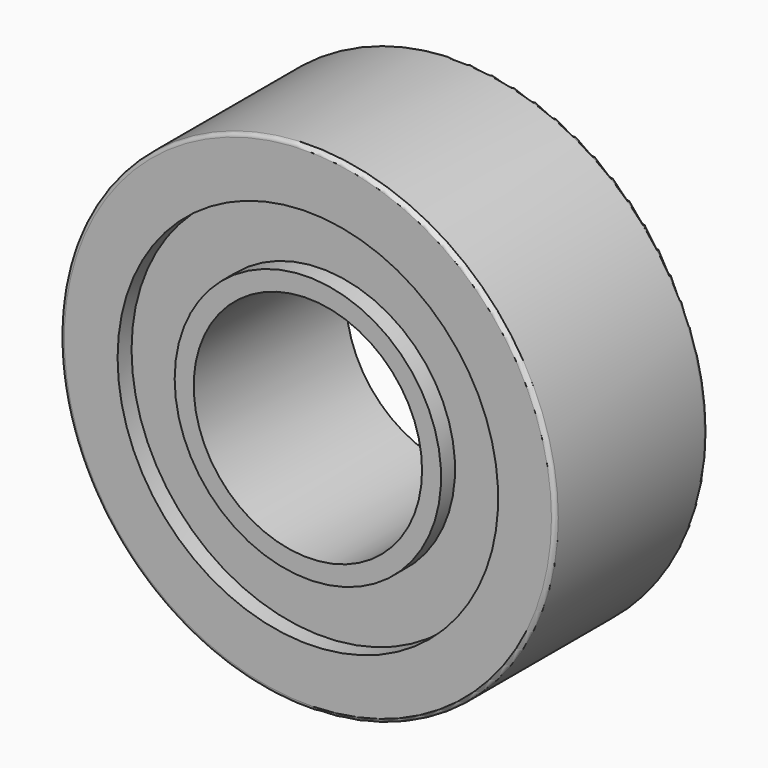
from build123d import *

# Parameters (mm, degrees)
F0_R     = 6.5
F0_R_2   = 3
F1_DEPTH = 5
F2_W     = 1.5
F2_H     = 0.5
F5_R     = 0.1
F6_R     = 0.1


with BuildPart() as f1:
    # F0 (on Front) → F1 (new body)
    with BuildSketch(Plane.XZ):
        Circle(F0_R)
        Circle(F0_R_2, mode=Mode.SUBTRACT)
    extrude(amount=F1_DEPTH)

    # F2 (on Top) → F3 (revolve, cut)
    with BuildSketch(Plane.XY):
        with Locations((-4.25, -4.791322)):
            Rectangle(F2_W, F2_H)
    revolve(axis=Axis((0, -1.116181, 0), (0, -1, 0)), mode=Mode.SUBTRACT)

    # F2 (on Top) → F4 (revolve, cut)
    with BuildSketch(Plane.XY):
        with Locations((-4.25, -0.25)):
            Rectangle(F2_W, F2_H)
    revolve(axis=Axis((0, -1.116181, 0), (0, -1, 0)), mode=Mode.SUBTRACT)

    # F5
    f5_edges = [f1.edges().sort_by_distance(p)[0] for p in [
        (-6.5, -5, 0),
    ]]
    fillet(f5_edges, radius=F5_R)

    # F6
    f6_edges = [f1.edges().sort_by_distance(p)[0] for p in [
        (-6.5, 0, 0),
    ]]
    fillet(f6_edges, radius=F6_R)


solid = f1.part
